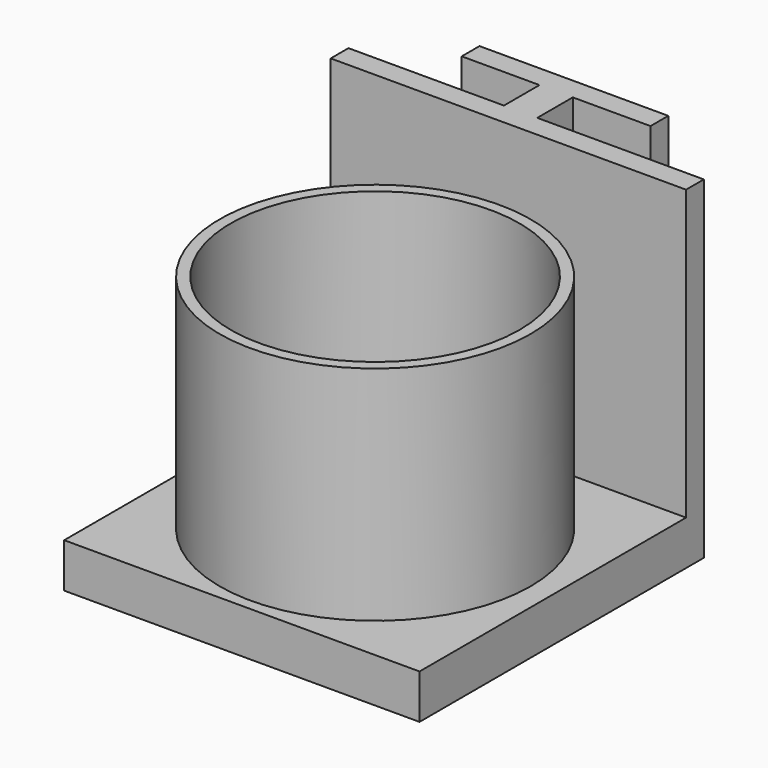
from build123d import *

# Parameters (mm, degrees)
F0_W     = 1.5
F0_H     = 2
F1_DEPTH = 15
F3_DEPTH = 1
F4_W     = 16
F4_H     = 2
F5_DEPTH = 15
F6_R     = 7
F6_R_2   = 6.5
F7_DEPTH = 10


with BuildPart() as f1:
    # F0 (on Top) → F1 (new body)
    with BuildSketch(Plane.XY):
        with Locations((4.5, 7)):
            Rectangle(F0_W, F0_H)
        Polygon((0.25, 8), (3.75, 8), (5.25, 8), (8.75, 8), (8.75, 9), (0.25, 9), align=None)
    extrude(amount=F1_DEPTH)

    # F2 (on face) → F3 (join)
    with BuildSketch(Plane.XZ.offset(-6)):
        Polygon((12.75, 15), (3.75, 15), (-3.25, 15), (-3.25, 0), (12.75, 0), align=None)
    extrude(amount=F3_DEPTH)

    # F4 (on face) → F5 (join)
    with BuildSketch(Plane.XZ.offset(-5)):
        with Locations((4.75, 1)):
            Rectangle(F4_W, F4_H)
    extrude(amount=F5_DEPTH)

    # F6 (on face) → F7 (join)
    with BuildSketch(Plane.XY.offset(2)):
        with Locations((4.75, -2.5)):
            Circle(F6_R)
        with Locations((4.75, -2.5)):
            Circle(F6_R_2, mode=Mode.SUBTRACT)
    extrude(amount=F7_DEPTH)


solid = f1.part
